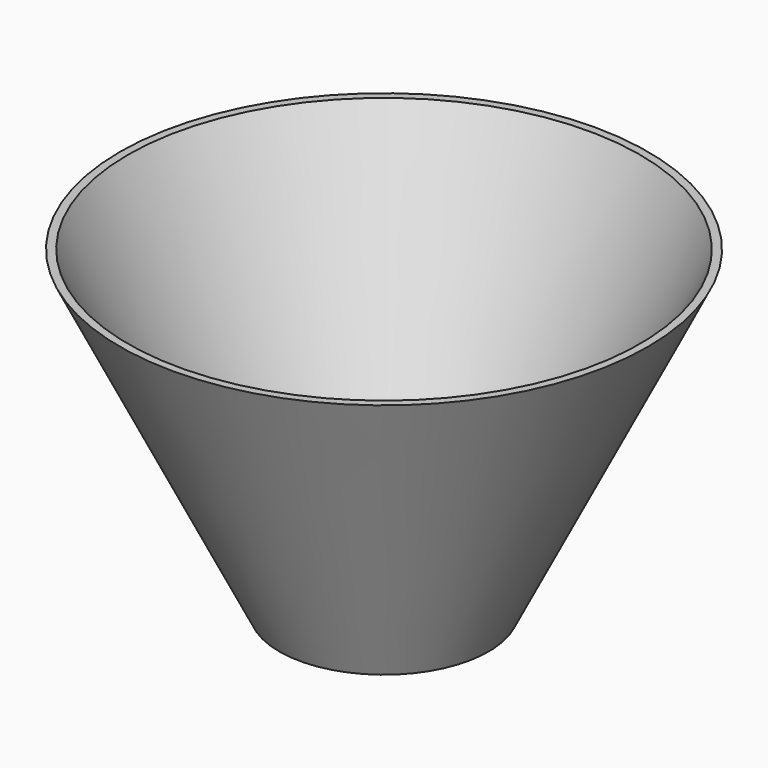
from build123d import *


with BuildPart() as f1:
    # F0 (on Front) → F1 (revolve)
    with BuildSketch(Plane.XZ):
        Polygon((-20.864155, 0), (0, 0), (0, 1.054488), (-19.801272, 1.054488), (-51.001638, 63.767686), (-52.589138, 63.767686), align=None)
        Polygon((-20.864155, 0), (0, 0), (0, 1.054488), (-19.801272, 1.054488), (-51.001638, 63.767686), (-52.589138, 63.767686), align=None)
    revolve(axis=Axis((0, 0, 0.527244), (0, 0, -1)))


solid = f1.part
